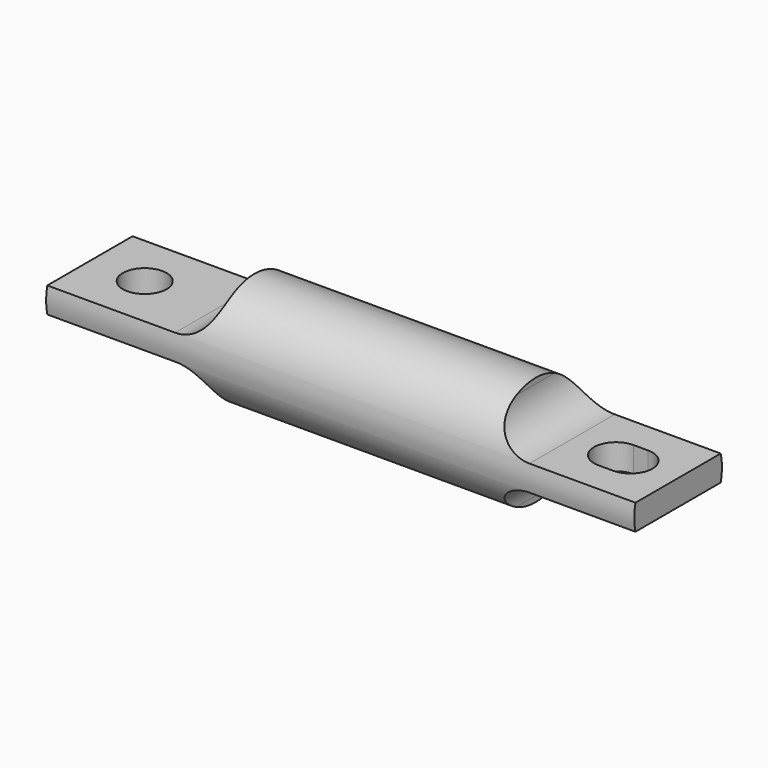
from build123d import *

# Parameters (mm, degrees)
F0_R     = 15
F1_DEPTH = 80.5
F2_W     = 45
F2_H     = 11.5
F2_W_2   = 39
F3_DEPTH = 15
F4_R     = 10
F5_R     = 6
F6_DEPTH = 3.5


with BuildPart() as f1:
    # F0 (on Right) → F1 (new body, symmetric)
    with BuildSketch(Plane.YZ):
        Circle(F0_R)
    extrude(amount=F1_DEPTH, both=True)

    # F2 (on Front) → F3 (cut, symmetric)
    with BuildSketch(Plane.XZ):
        with Locations((-58, 9.25)):
            Rectangle(F2_W, F2_H)
        with Locations((-58, -9.25)):
            Rectangle(F2_W, F2_H)
        with Locations((61, 9.25)):
            Rectangle(F2_W_2, F2_H)
        with Locations((61, -9.25)):
            Rectangle(F2_W_2, F2_H)
    extrude(amount=F3_DEPTH, both=True, mode=Mode.SUBTRACT)

    # F4
    f4_edges = [f1.edges().sort_by_distance(p)[0] for p in [
        (41.5, 0, 3.5),
        (-35.5, 0, 3.5),
        (41.5, 0, -3.5),
        (-35.5, 0, -3.5),
    ]]
    fillet(f4_edges, radius=F4_R)

    # F5 (on Top) → F6 (cut, symmetric)
    with BuildSketch(Plane.XY):
        with Locations((-65.5, 0)):
            Circle(F5_R)
        with BuildLine():
            Line((67.5, 6), (63.5, 6))
            ThreePointArc((63.5, 6), (57.5, 0), (63.5, -6))
            Line((63.5, -6), (67.5, -6))
            ThreePointArc((67.5, -6), (73.5, 0), (67.5, 6))
        make_face()
    extrude(amount=F6_DEPTH, both=True, mode=Mode.SUBTRACT)


solid = f1.part
